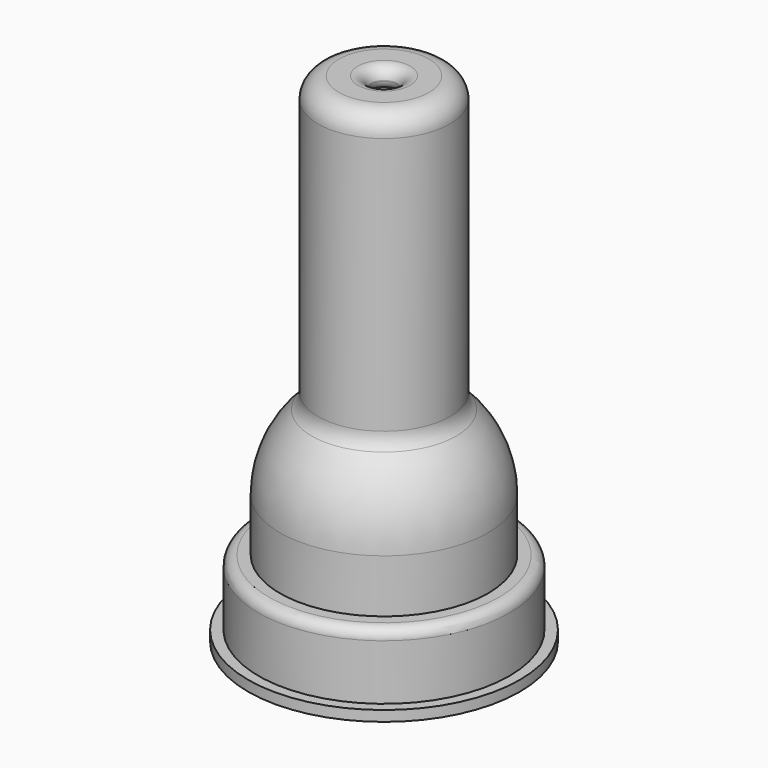
from build123d import *

# Parameters (mm, degrees)
F0_W = 2
F0_H = 2


with BuildPart() as f1:
    # F0 (on Front) → F1 (revolve)
    with BuildSketch(Plane.XZ):
        with BuildLine():
            Line((19.975, 9.6), (19.975, 2.5))
            ThreePointArc((19.975, 2.5), (20.707233, 0.732233), (22.475, 0))
            Line((22.475, 0), (23.975, 0))
            Line((23.975, 0), (23.975, 2))
            Line((23.975, 2), (23.975, 12.6))
            ThreePointArc((23.975, 12.6), (23.389214, 14.014214), (21.975, 14.6))
            Line((21.975, 14.6), (19.910129, 14.6))
            Line((19.910129, 14.6), (19.910129, 24.788242))
            ThreePointArc((19.910129, 24.788242), (18.330905, 32.559418), (13.843752, 39.097811))
            ThreePointArc((13.843752, 39.097811), (12.942271, 40.411393), (12.625, 41.972644))
            Line((12.625, 41.972644), (12.625, 91.25))
            ThreePointArc((12.625, 91.25), (11.453427, 94.078427), (8.625, 95.25))
            Line((8.625, 95.25), (5, 95.25))
            ThreePointArc((5, 95.25), (3.378427, 94.652762), (2.531627, 93.146401))
            ThreePointArc((2.531627, 93.146401), (2.521917, 93.080306), (2.513976, 93.013976))
            ThreePointArc((2.513976, 93.013976), (3.171853, 91.754666), (4.5, 91.25))
            Line((4.5, 91.25), (6.625, 91.25))
            ThreePointArc((6.625, 91.25), (8.039214, 90.664214), (8.625, 89.25))
            Line((8.625, 89.25), (8.625, 40.016001))
            ThreePointArc((8.625, 40.016001), (8.831172, 38.211496), (9.43906, 36.5))
            Line((9.43906, 36.5), (14.525, 36.5))
            Line((14.525, 36.5), (14.525, 25.55))
            Line((14.525, 25.55), (14.525, 17.870278))
            ThreePointArc((14.525, 17.870278), (15.845013, 13.468258), (19.369444, 10.51892))
            ThreePointArc((19.369444, 10.51892), (19.809998, 10.150252), (19.975, 9.6))
        make_face()
        with Locations((24.975, 1)):
            Rectangle(F0_W, F0_H)
        with BuildLine():
            ThreePointArc((10.725677, 34.612485), (13.413849, 30.411814), (14.525, 25.55))
            Line((14.525, 25.55), (14.525, 36.5))
            Line((14.525, 36.5), (9.43906, 36.5))
            ThreePointArc((9.43906, 36.5), (10.014652, 35.510083), (10.725677, 34.612485))
        make_face()
    revolve(axis=Axis((0, 0, 6.099236), (0, 0, 1)))


solid = f1.part
